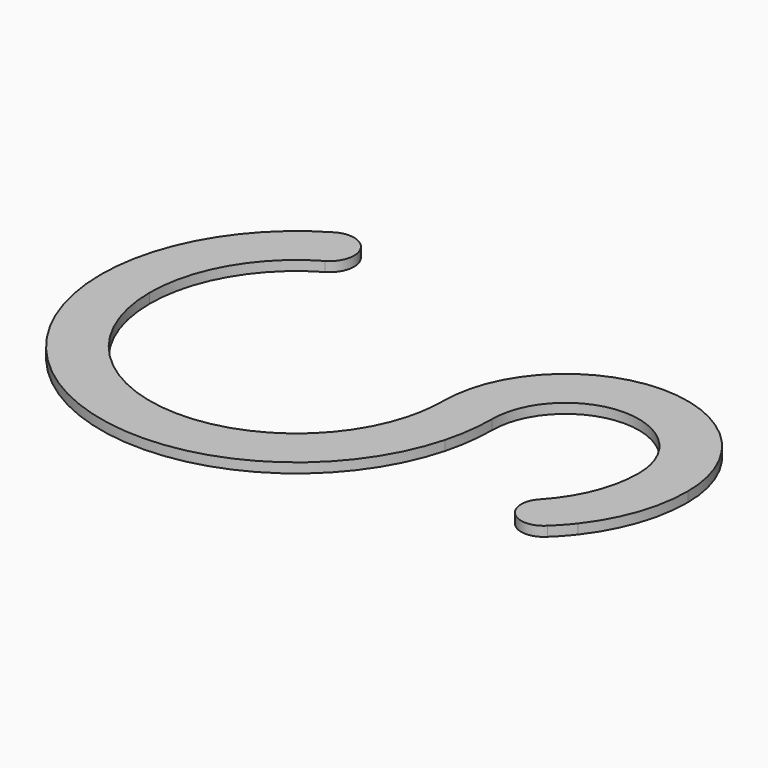
from build123d import *

# Parameters (mm, degrees)
F1_DEPTH = 2


with BuildPart() as f1:
    # F0 (on Top) → F1 (new body)
    with BuildSketch(Plane.XY):
        with BuildLine():
            ThreePointArc((-15, 0), (0, 15), (15, 0))
            ThreePointArc((15, 0), (13.255265, -9.106925), (8.268148, -16.92414))
            Line((8.268148, -16.92414), (18.268148, -19.603632))
            ThreePointArc((18.268148, -19.603632), (23.270148, -10.363641), (25, 0))
            ThreePointArc((25, 0), (0, 25), (-25, 0))
            ThreePointArc((-25, 0), (-25.258505, -3.901411), (-26.022212, -7.736066))
            Line((-26.022212, -7.736066), (-16.362957, -10.324255))
            ThreePointArc((-16.362957, -10.324255), (-15.344059, -5.206672), (-15, 0))
        make_face()
        with BuildLine():
            Line((18.268148, -19.603632), (8.268148, -16.92414))
            Line((8.268148, -16.92414), (14.953802, -23.24247))
            ThreePointArc((14.953802, -23.24247), (16.68124, -21.48705), (18.268148, -19.603632))
        make_face()
        with BuildLine():
            Line((14.953802, -23.24247), (8.268148, -16.92414))
            ThreePointArc((8.268148, -16.92414), (8.45181, -23.426132), (14.953802, -23.24247))
        make_face()
        with BuildLine():
            ThreePointArc((-95, 0), (-60.206916, -39.631154), (-16.362957, -10.324255))
            Line((-16.362957, -10.324255), (-26.022212, -7.736066))
            ThreePointArc((-26.022212, -7.736066), (-58.901655, -29.716708), (-85, 0))
            ThreePointArc((-85, 0), (-80.987898, 15.016169), (-70.000007, 26.009283))
            ThreePointArc((-70.000007, 26.009283), (-68.16754, 32.83878), (-74.997037, 34.671247))
            ThreePointArc((-74.997037, 34.671247), (-89.647294, 20.017652), (-95, 0))
        make_face()
    extrude(amount=F1_DEPTH)


solid = f1.part
